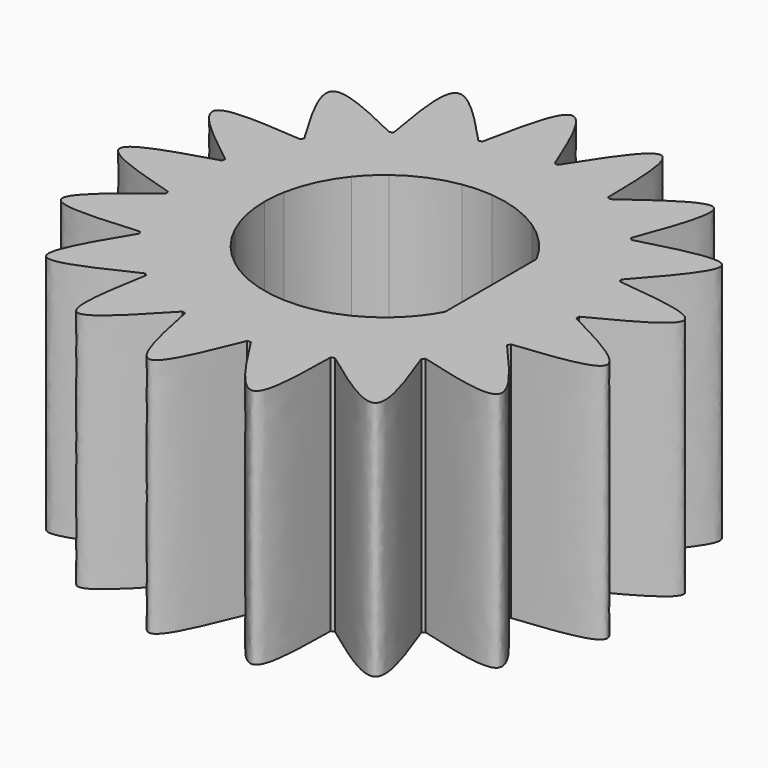
from build123d import *

# Parameters (mm, degrees)
F1_DEPTH = 5
F2_COUNT = 17
F3_DEPTH = 5


with BuildPart() as f1:
    # F0 (on Top) → F1 (new body)
    with BuildSketch(Plane.XY):
        with BuildLine():
            ThreePointArc((-3.9382737335, -0.7), (0.3513581264, -3.9845385513), (4, 0))
            ThreePointArc((4, 0), (0.3513581264, 3.9845385513), (-3.9382737335, 0.7))
            ThreePointArc((-3.9382737335, 0.7), (-4, 0), (-3.9382737335, -0.7))
        make_face()
        with BuildLine():
            ThreePointArc((2.2, 1.1874342087), (2.4238399287, 0.6123724357), (2.5, 0))
            ThreePointArc((2.5, 0), (2.4238399287, -0.6123724357), (2.2, -1.1874342087))
            ThreePointArc((2.2, -1.1874342087), (-0.6123724357, -2.4238399287), (-2.5, 0))
            ThreePointArc((-2.5, 0), (-0.6123724357, 2.4238399287), (2.2, 1.1874342087))
        make_face(mode=Mode.SUBTRACT)
        with BuildLine():
            ThreePointArc((-3.9382737335, -0.7), (-4, 0), (-3.9382737335, 0.7))
            add(Edge.make_bspline(
                [(-3.9382737335, -0.7), (-4.7191368668, -0.4666666667), (-6.2808631332, 0), (-4.7191368668, 0.4666666667), (-3.9382737335, 0.7)],
                knots=[0, 0, 0, 0, 0.5, 1, 1, 1, 1], degree=3))
        make_face()
    extrude(amount=F1_DEPTH)


with BuildPart() as f2_1:
    # F2: instance of F1
    add(f1.part.rotate(Axis((0, 0, 5), (0, 0, -1)), 1 * 360 / F2_COUNT))


with BuildPart() as f2_2:
    # F2: instance of F1
    add(f1.part.rotate(Axis((0, 0, 5), (0, 0, -1)), 2 * 360 / F2_COUNT))


with BuildPart() as f2_3:
    # F2: instance of F1
    add(f1.part.rotate(Axis((0, 0, 5), (0, 0, -1)), 3 * 360 / F2_COUNT))


with BuildPart() as f2_4:
    # F2: instance of F1
    add(f1.part.rotate(Axis((0, 0, 5), (0, 0, -1)), 4 * 360 / F2_COUNT))


with BuildPart() as f2_5:
    # F2: instance of F1
    add(f1.part.rotate(Axis((0, 0, 5), (0, 0, -1)), 5 * 360 / F2_COUNT))


with BuildPart() as f2_6:
    # F2: instance of F1
    add(f1.part.rotate(Axis((0, 0, 5), (0, 0, -1)), 6 * 360 / F2_COUNT))


with BuildPart() as f2_7:
    # F2: instance of F1
    add(f1.part.rotate(Axis((0, 0, 5), (0, 0, -1)), 7 * 360 / F2_COUNT))


with BuildPart() as f2_8:
    # F2: instance of F1
    add(f1.part.rotate(Axis((0, 0, 5), (0, 0, -1)), 8 * 360 / F2_COUNT))


with BuildPart() as f2_9:
    # F2: instance of F1
    add(f1.part.rotate(Axis((0, 0, 5), (0, 0, -1)), 9 * 360 / F2_COUNT))


with BuildPart() as f2_10:
    # F2: instance of F1
    add(f1.part.rotate(Axis((0, 0, 5), (0, 0, -1)), 10 * 360 / F2_COUNT))


with BuildPart() as f2_11:
    # F2: instance of F1
    add(f1.part.rotate(Axis((0, 0, 5), (0, 0, -1)), 11 * 360 / F2_COUNT))


with BuildPart() as f2_12:
    # F2: instance of F1
    add(f1.part.rotate(Axis((0, 0, 5), (0, 0, -1)), 12 * 360 / F2_COUNT))


with BuildPart() as f2_13:
    # F2: instance of F1
    add(f1.part.rotate(Axis((0, 0, 5), (0, 0, -1)), 13 * 360 / F2_COUNT))


with BuildPart() as f2_14:
    # F2: instance of F1
    add(f1.part.rotate(Axis((0, 0, 5), (0, 0, -1)), 14 * 360 / F2_COUNT))


with BuildPart() as f2_15:
    # F2: instance of F1
    add(f1.part.rotate(Axis((0, 0, 5), (0, 0, -1)), 15 * 360 / F2_COUNT))


with BuildPart() as f2_16:
    # F2: instance of F1
    add(f1.part.rotate(Axis((0, 0, 5), (0, 0, -1)), 16 * 360 / F2_COUNT))


with BuildPart() as f1_1:
    add(f1.part)

    add(f2_1.part)  # F3 merges F2_1

    add(f2_2.part)  # F3 merges F2_2

    add(f2_3.part)  # F3 merges F2_3

    add(f2_4.part)  # F3 merges F2_4

    add(f2_5.part)  # F3 merges F2_5

    add(f2_6.part)  # F3 merges F2_6

    add(f2_7.part)  # F3 merges F2_7

    add(f2_8.part)  # F3 merges F2_8

    add(f2_9.part)  # F3 merges F2_9

    add(f2_10.part)  # F3 merges F2_10

    add(f2_11.part)  # F3 merges F2_11

    add(f2_12.part)  # F3 merges F2_12

    add(f2_13.part)  # F3 merges F2_13

    add(f2_14.part)  # F3 merges F2_14

    add(f2_15.part)  # F3 merges F2_15

    add(f2_16.part)  # F3 merges F2_16
    # F0 (on Top) → F3 (join)
    with BuildSketch(Plane.XY):
        with BuildLine():
            ThreePointArc((2.2, -1.1874342087), (2.4238399287, -0.6123724357), (2.5, 0))
            ThreePointArc((2.5, 0), (2.4238399287, 0.6123724357), (2.2, 1.1874342087))
            Line((2.2, 1.1874342087), (2.2, 0))
            Line((2.2, 0), (2.2, -1.1874342087))
        make_face()
    extrude(amount=F3_DEPTH)


solid = f1_1.part
